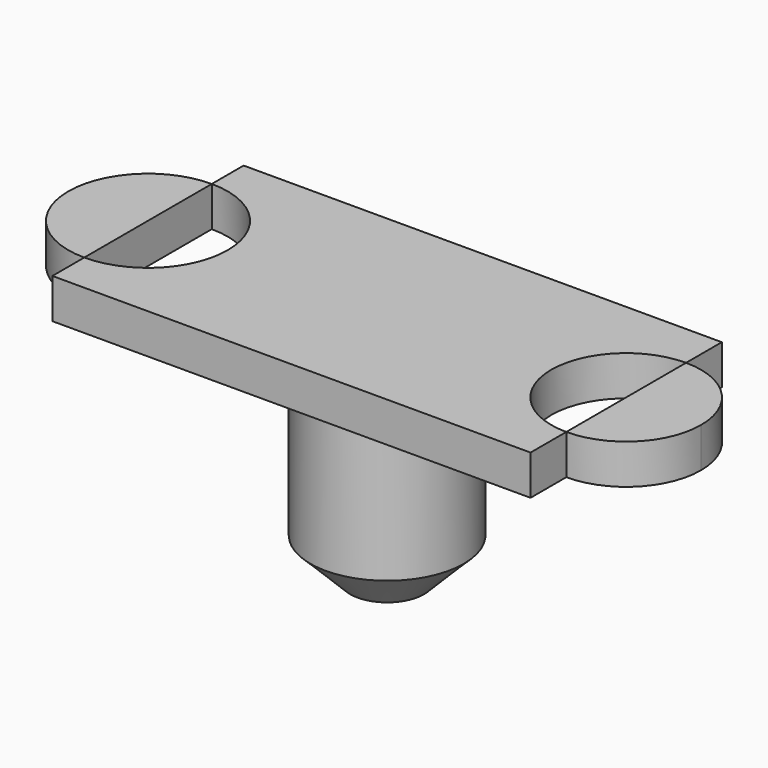
from build123d import *

# Parameters (mm, degrees)
F2_DEPTH = 5
F3_R     = 9.6364539138
F4_DEPTH = 25
F5_SIZE  = 5


with BuildPart() as f2:
    # F1 (on offset) → F2 (new body)
    with BuildSketch(Plane.XY.offset(152.4)):
        with BuildLine():
            Line((30, 15), (-30, 15))
            Line((-30, 15), (-30, 10))
            ThreePointArc((-30, 10), (-22.9289321881, 7.0710678119), (-20, 0))
            ThreePointArc((-20, 0), (-22.9289321881, -7.0710678119), (-30, -10))
            Line((-30, -10), (-30, -15))
            Line((-30, -15), (30, -15))
            Line((30, -15), (30, -9.3946087251))
            ThreePointArc((30, -9.3946087251), (20.6053912749, 0), (30, 9.3946087251))
            Line((30, 9.3946087251), (30, 15))
        make_face()
    extrude(amount=F2_DEPTH)

    # F3 (on face) → F4 (join)
    with BuildSketch(Plane(origin=(0, 0, 152.4), x_dir=(1, 0, 0), z_dir=(0, 0, -1))):
        Circle(F3_R)
    extrude(amount=F4_DEPTH)

    # F5
    f5_edges = [f2.edges().sort_by_distance(p)[0] for p in [
        (-9.636454, 0, 127.4),
    ]]
    chamfer(f5_edges, length=F5_SIZE)


with BuildPart() as f2b:
    # F1 (on offset) → F2, piece 2 (new body)
    with BuildSketch(Plane.XY.offset(152.4)):
        with BuildLine():
            Line((-30, -10), (-30, 10))
            ThreePointArc((-30, 10), (-40, 0), (-30, -10))
        make_face()
    extrude(amount=F2_DEPTH)


with BuildPart() as f2c:
    # F1 (on offset) → F2, piece 3 (new body)
    with BuildSketch(Plane.XY.offset(152.4)):
        with BuildLine():
            ThreePointArc((39.3946087251, 0), (36.6429915361, 6.6429915361), (30, 9.3946087251))
            Line((30, 9.3946087251), (30, -9.3946087251))
            ThreePointArc((30, -9.3946087251), (36.6429915361, -6.6429915361), (39.3946087251, 0))
        make_face()
    extrude(amount=F2_DEPTH)


solid = Compound([f2.part, f2b.part, f2c.part])
